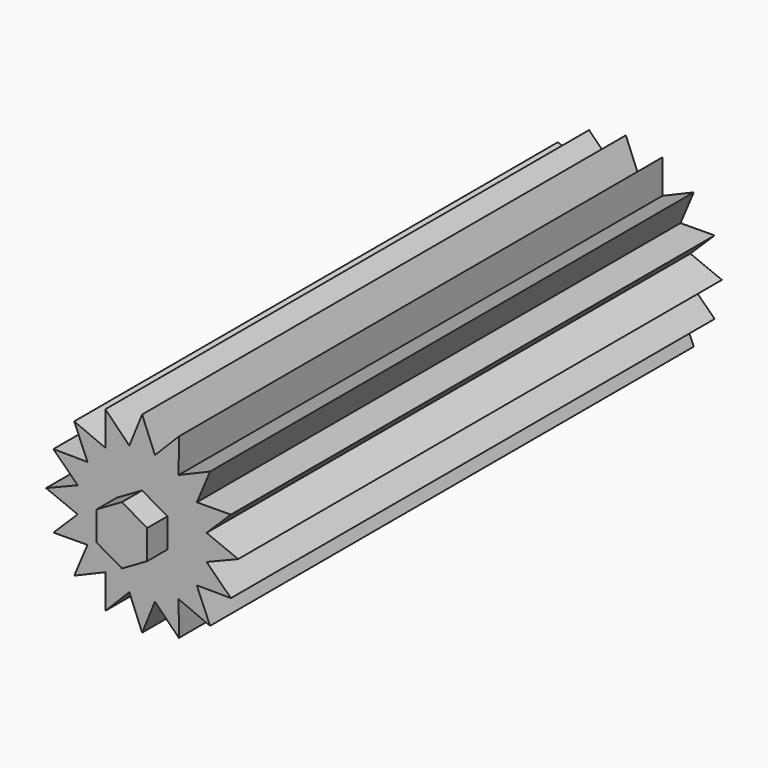
from build123d import *

# Parameters (mm, degrees)
F1_DEPTH = 75.946
F3_DEPTH = 3.175


with BuildPart() as f1:
    # F0 (on Front) → F1 (new body)
    with BuildSketch(Plane.XZ):
        with BuildLine():
            Line((8.255, 0), (12.065, 0))
            Line((12.065, 0), (8.096382, 1.610471))
            ThreePointArc((8.096382, 1.610471), (8.21525, 0.809131), (8.255, 0))
        make_face()
        with BuildLine():
            ThreePointArc((7.626626, 3.159052), (7.899542, 2.3963), (8.096382, 1.610471))
            Line((8.096382, 1.610471), (11.146607, 4.617076))
            Line((11.146607, 4.617076), (7.626626, 3.159052))
        make_face()
        with BuildLine():
            Line((7.626626, 3.159052), (11.146607, 4.617076))
            Line((11.146607, 4.617076), (6.863782, 4.586232))
            ThreePointArc((6.863782, 4.586232), (7.28026, 3.89138), (7.626626, 3.159052))
        make_face()
        with BuildLine():
            ThreePointArc((5.837166, 5.837166), (6.381201, 5.236917), (6.863782, 4.586232))
            Line((6.863782, 4.586232), (8.531243, 8.531243))
            Line((8.531243, 8.531243), (5.837166, 5.837166))
        make_face()
        with BuildLine():
            ThreePointArc((4.586232, 6.863782), (5.236917, 6.381201), (5.837166, 5.837166))
            Line((5.837166, 5.837166), (8.531243, 8.531243))
            Line((8.531243, 8.531243), (4.586232, 6.863782))
        make_face()
        with BuildLine():
            Line((4.617076, 11.146607), (3.159052, 7.626626))
            ThreePointArc((3.159052, 7.626626), (3.89138, 7.28026), (4.586232, 6.863782))
            Line((4.586232, 6.863782), (4.617076, 11.146607))
        make_face()
        with BuildLine():
            ThreePointArc((1.610471, 8.096382), (2.3963, 7.899542), (3.159052, 7.626626))
            Line((3.159052, 7.626626), (4.617076, 11.146607))
            Line((4.617076, 11.146607), (1.610471, 8.096382))
        make_face()
        with BuildLine():
            Line((0, 12.065), (0, 8.255))
            ThreePointArc((0, 8.255), (0.809131, 8.21525), (1.610471, 8.096382))
            Line((1.610471, 8.096382), (0, 12.065))
        make_face()
        with BuildLine():
            ThreePointArc((-1.610471, 8.096382), (-0.809131, 8.21525), (0, 8.255))
            Line((0, 8.255), (0, 12.065))
            Line((0, 12.065), (-1.610471, 8.096382))
        make_face()
        with BuildLine():
            Line((-4.617076, 11.146607), (-3.159052, 7.626626))
            ThreePointArc((-3.159052, 7.626626), (-2.3963, 7.899542), (-1.610471, 8.096382))
            Line((-1.610471, 8.096382), (-4.617076, 11.146607))
        make_face()
        with BuildLine():
            ThreePointArc((-4.586232, 6.863782), (-3.89138, 7.28026), (-3.159052, 7.626626))
            Line((-3.159052, 7.626626), (-4.617076, 11.146607))
            Line((-4.617076, 11.146607), (-4.586232, 6.863782))
        make_face()
        with BuildLine():
            Line((-8.531243, 8.531243), (-5.837166, 5.837166))
            ThreePointArc((-5.837166, 5.837166), (-5.236917, 6.381201), (-4.586232, 6.863782))
            Line((-4.586232, 6.863782), (-8.531243, 8.531243))
        make_face()
        with BuildLine():
            ThreePointArc((-6.863782, 4.586232), (-6.381201, 5.236917), (-5.837166, 5.837166))
            Line((-5.837166, 5.837166), (-8.531243, 8.531243))
            Line((-8.531243, 8.531243), (-6.863782, 4.586232))
        make_face()
        with BuildLine():
            Line((-11.146607, 4.617076), (-7.626626, 3.159052))
            ThreePointArc((-7.626626, 3.159052), (-7.28026, 3.89138), (-6.863782, 4.586232))
            Line((-6.863782, 4.586232), (-11.146607, 4.617076))
        make_face()
        with BuildLine():
            ThreePointArc((-8.096382, 1.610471), (-7.899542, 2.3963), (-7.626626, 3.159052))
            Line((-7.626626, 3.159052), (-11.146607, 4.617076))
            Line((-11.146607, 4.617076), (-8.096382, 1.610471))
        make_face()
        with BuildLine():
            Line((-12.065, 0), (-8.255, 0))
            ThreePointArc((-8.255, 0), (-8.21525, 0.809131), (-8.096382, 1.610471))
            Line((-8.096382, 1.610471), (-12.065, 0))
        make_face()
        with BuildLine():
            ThreePointArc((-8.096382, -1.610471), (-8.21525, -0.809131), (-8.255, 0))
            Line((-8.255, 0), (-12.065, 0))
            Line((-12.065, 0), (-8.096382, -1.610471))
        make_face()
        with BuildLine():
            Line((-11.146607, -4.617076), (-7.626626, -3.159052))
            ThreePointArc((-7.626626, -3.159052), (-7.899542, -2.3963), (-8.096382, -1.610471))
            Line((-8.096382, -1.610471), (-11.146607, -4.617076))
        make_face()
        with BuildLine():
            ThreePointArc((-6.863782, -4.586232), (-7.28026, -3.89138), (-7.626626, -3.159052))
            Line((-7.626626, -3.159052), (-11.146607, -4.617076))
            Line((-11.146607, -4.617076), (-6.863782, -4.586232))
        make_face()
        with BuildLine():
            Line((-8.531243, -8.531243), (-5.837166, -5.837166))
            ThreePointArc((-5.837166, -5.837166), (-6.381201, -5.236917), (-6.863782, -4.586232))
            Line((-6.863782, -4.586232), (-8.531243, -8.531243))
        make_face()
        with BuildLine():
            ThreePointArc((-4.586232, -6.863782), (-5.236917, -6.381201), (-5.837166, -5.837166))
            Line((-5.837166, -5.837166), (-8.531243, -8.531243))
            Line((-8.531243, -8.531243), (-4.586232, -6.863782))
        make_face()
        with BuildLine():
            Line((-4.617076, -11.146607), (-3.159052, -7.626626))
            ThreePointArc((-3.159052, -7.626626), (-3.89138, -7.28026), (-4.586232, -6.863782))
            Line((-4.586232, -6.863782), (-4.617076, -11.146607))
        make_face()
        with BuildLine():
            ThreePointArc((-1.610471, -8.096382), (-2.3963, -7.899542), (-3.159052, -7.626626))
            Line((-3.159052, -7.626626), (-4.617076, -11.146607))
            Line((-4.617076, -11.146607), (-1.610471, -8.096382))
        make_face()
        with BuildLine():
            Line((0, -12.065), (0, -8.255))
            ThreePointArc((0, -8.255), (-0.809131, -8.21525), (-1.610471, -8.096382))
            Line((-1.610471, -8.096382), (0, -12.065))
        make_face()
        with BuildLine():
            ThreePointArc((1.610471, -8.096382), (0.809131, -8.21525), (0, -8.255))
            Line((0, -8.255), (0, -12.065))
            Line((0, -12.065), (1.610471, -8.096382))
        make_face()
        with BuildLine():
            Line((4.617076, -11.146607), (3.159052, -7.626626))
            ThreePointArc((3.159052, -7.626626), (2.3963, -7.899542), (1.610471, -8.096382))
            Line((1.610471, -8.096382), (4.617076, -11.146607))
        make_face()
        with BuildLine():
            ThreePointArc((4.586232, -6.863782), (3.89138, -7.28026), (3.159052, -7.626626))
            Line((3.159052, -7.626626), (4.617076, -11.146607))
            Line((4.617076, -11.146607), (4.586232, -6.863782))
        make_face()
        with BuildLine():
            Line((8.531243, -8.531243), (5.837166, -5.837166))
            ThreePointArc((5.837166, -5.837166), (5.236917, -6.381201), (4.586232, -6.863782))
            Line((4.586232, -6.863782), (8.531243, -8.531243))
        make_face()
        with BuildLine():
            Line((8.531243, -8.531243), (6.863782, -4.586232))
            ThreePointArc((6.863782, -4.586232), (6.381201, -5.236917), (5.837166, -5.837166))
            Line((5.837166, -5.837166), (8.531243, -8.531243))
        make_face()
        with BuildLine():
            Line((6.863782, -4.586232), (11.146607, -4.617076))
            Line((11.146607, -4.617076), (7.626626, -3.159052))
            ThreePointArc((7.626626, -3.159052), (7.28026, -3.89138), (6.863782, -4.586232))
        make_face()
        with BuildLine():
            Line((11.146607, -4.617076), (8.096382, -1.610471))
            ThreePointArc((8.096382, -1.610471), (7.899542, -2.3963), (7.626626, -3.159052))
            Line((7.626626, -3.159052), (11.146607, -4.617076))
        make_face()
        with BuildLine():
            Line((8.096382, -1.610471), (12.065, 0))
            Line((12.065, 0), (8.255, 0))
            ThreePointArc((8.255, 0), (8.21525, -0.809131), (8.096382, -1.610471))
        make_face()
        with BuildLine():
            Line((-4.586232, 6.863782), (0, 0))
            Line((0, 0), (-3.159052, 7.626626))
            ThreePointArc((-3.159052, 7.626626), (-3.89138, 7.28026), (-4.586232, 6.863782))
        make_face()
        with BuildLine():
            Line((-3.159052, 7.626626), (0, 0))
            Line((0, 0), (-1.610471, 8.096382))
            ThreePointArc((-1.610471, 8.096382), (-2.3963, 7.899542), (-3.159052, 7.626626))
        make_face()
        with BuildLine():
            Line((0, 8.255), (0, 0))
            Line((0, 0), (1.610471, 8.096382))
            ThreePointArc((1.610471, 8.096382), (0.809131, 8.21525), (0, 8.255))
        make_face()
        with BuildLine():
            Line((-1.610471, 8.096382), (0, 0))
            Line((0, 0), (0, 8.255))
            ThreePointArc((0, 8.255), (-0.809131, 8.21525), (-1.610471, 8.096382))
        make_face()
        with BuildLine():
            Line((3.159052, 7.626626), (0, 0))
            Line((0, 0), (4.586232, 6.863782))
            ThreePointArc((4.586232, 6.863782), (3.89138, 7.28026), (3.159052, 7.626626))
        make_face()
        with BuildLine():
            Line((1.610471, 8.096382), (0, 0))
            Line((0, 0), (3.159052, 7.626626))
            ThreePointArc((3.159052, 7.626626), (2.3963, 7.899542), (1.610471, 8.096382))
        make_face()
        with BuildLine():
            Line((5.837166, 5.837166), (0, 0))
            Line((0, 0), (6.863782, 4.586232))
            ThreePointArc((6.863782, 4.586232), (6.381201, 5.236917), (5.837166, 5.837166))
        make_face()
        with BuildLine():
            Line((4.586232, 6.863782), (0, 0))
            Line((0, 0), (5.837166, 5.837166))
            ThreePointArc((5.837166, 5.837166), (5.236917, 6.381201), (4.586232, 6.863782))
        make_face()
        with BuildLine():
            Line((0, 0), (8.096382, 1.610471))
            ThreePointArc((8.096382, 1.610471), (7.899542, 2.3963), (7.626626, 3.159052))
            Line((7.626626, 3.159052), (0, 0))
        make_face()
        with BuildLine():
            Line((6.863782, 4.586232), (0, 0))
            Line((0, 0), (7.626626, 3.159052))
            ThreePointArc((7.626626, 3.159052), (7.28026, 3.89138), (6.863782, 4.586232))
        make_face()
        with BuildLine():
            Line((-8.255, 0), (0, 0))
            Line((0, 0), (-8.096382, 1.610471))
            ThreePointArc((-8.096382, 1.610471), (-8.21525, 0.809131), (-8.255, 0))
        make_face()
        with BuildLine():
            Line((-8.096382, -1.610471), (0, 0))
            Line((0, 0), (-8.255, 0))
            ThreePointArc((-8.255, 0), (-8.21525, -0.809131), (-8.096382, -1.610471))
        make_face()
        with BuildLine():
            Line((7.626626, -3.159052), (0, 0))
            Line((0, 0), (6.863782, -4.586232))
            ThreePointArc((6.863782, -4.586232), (7.28026, -3.89138), (7.626626, -3.159052))
        make_face()
        with BuildLine():
            ThreePointArc((7.626626, -3.159052), (7.899542, -2.3963), (8.096382, -1.610471))
            Line((8.096382, -1.610471), (0, 0))
            Line((0, 0), (7.626626, -3.159052))
        make_face()
        with BuildLine():
            Line((5.837166, -5.837166), (0, 0))
            Line((0, 0), (4.586232, -6.863782))
            ThreePointArc((4.586232, -6.863782), (5.236917, -6.381201), (5.837166, -5.837166))
        make_face()
        with BuildLine():
            Line((6.863782, -4.586232), (0, 0))
            Line((0, 0), (5.837166, -5.837166))
            ThreePointArc((5.837166, -5.837166), (6.381201, -5.236917), (6.863782, -4.586232))
        make_face()
        with BuildLine():
            Line((3.159052, -7.626626), (0, 0))
            Line((0, 0), (1.610471, -8.096382))
            ThreePointArc((1.610471, -8.096382), (2.3963, -7.899542), (3.159052, -7.626626))
        make_face()
        with BuildLine():
            Line((-3.159052, -7.626626), (0, 0))
            Line((0, 0), (-4.586232, -6.863782))
            ThreePointArc((-4.586232, -6.863782), (-3.89138, -7.28026), (-3.159052, -7.626626))
        make_face()
        with BuildLine():
            Line((-1.610471, -8.096382), (0, 0))
            Line((0, 0), (-3.159052, -7.626626))
            ThreePointArc((-3.159052, -7.626626), (-2.3963, -7.899542), (-1.610471, -8.096382))
        make_face()
        with BuildLine():
            Line((-5.837166, -5.837166), (0, 0))
            Line((0, 0), (-6.863782, -4.586232))
            ThreePointArc((-6.863782, -4.586232), (-6.381201, -5.236917), (-5.837166, -5.837166))
        make_face()
        with BuildLine():
            Line((-4.586232, -6.863782), (0, 0))
            Line((0, 0), (-5.837166, -5.837166))
            ThreePointArc((-5.837166, -5.837166), (-5.236917, -6.381201), (-4.586232, -6.863782))
        make_face()
        with BuildLine():
            Line((-7.626626, -3.159052), (0, 0))
            Line((0, 0), (-8.096382, -1.610471))
            ThreePointArc((-8.096382, -1.610471), (-7.899542, -2.3963), (-7.626626, -3.159052))
        make_face()
        with BuildLine():
            Line((-6.863782, -4.586232), (0, 0))
            Line((0, 0), (-7.626626, -3.159052))
            ThreePointArc((-7.626626, -3.159052), (-7.28026, -3.89138), (-6.863782, -4.586232))
        make_face()
        with BuildLine():
            ThreePointArc((8.096382, -1.610471), (8.21525, -0.809131), (8.255, 0))
            Line((8.255, 0), (0, 0))
            Line((0, 0), (8.096382, -1.610471))
        make_face()
        with BuildLine():
            Line((0, 0), (8.255, 0))
            ThreePointArc((8.255, 0), (8.21525, 0.809131), (8.096382, 1.610471))
            Line((8.096382, 1.610471), (0, 0))
        make_face()
        with BuildLine():
            Line((-7.626626, 3.159052), (0, 0))
            Line((0, 0), (-6.863782, 4.586232))
            ThreePointArc((-6.863782, 4.586232), (-7.28026, 3.89138), (-7.626626, 3.159052))
        make_face()
        with BuildLine():
            Line((-8.096382, 1.610471), (0, 0))
            Line((0, 0), (-7.626626, 3.159052))
            ThreePointArc((-7.626626, 3.159052), (-7.899542, 2.3963), (-8.096382, 1.610471))
        make_face()
        with BuildLine():
            Line((-5.837166, 5.837166), (0, 0))
            Line((0, 0), (-4.586232, 6.863782))
            ThreePointArc((-4.586232, 6.863782), (-5.236917, 6.381201), (-5.837166, 5.837166))
        make_face()
        with BuildLine():
            Line((-6.863782, 4.586232), (0, 0))
            Line((0, 0), (-5.837166, 5.837166))
            ThreePointArc((-5.837166, 5.837166), (-6.381201, 5.236917), (-6.863782, 4.586232))
        make_face()
        with BuildLine():
            Line((4.586232, -6.863782), (0, 0))
            Line((0, 0), (3.159052, -7.626626))
            ThreePointArc((3.159052, -7.626626), (3.89138, -7.28026), (4.586232, -6.863782))
        make_face()
        with BuildLine():
            Line((0, -8.255), (0, 0))
            Line((0, 0), (-1.610471, -8.096382))
            ThreePointArc((-1.610471, -8.096382), (-0.809131, -8.21525), (0, -8.255))
        make_face()
        with BuildLine():
            Line((1.610471, -8.096382), (0, 0))
            Line((0, 0), (0, -8.255))
            ThreePointArc((0, -8.255), (0.809131, -8.21525), (1.610471, -8.096382))
        make_face()
    extrude(amount=F1_DEPTH)

    # F2 (on face) → F3 (join)
    with BuildSketch(Plane.XZ.offset(75.946)):
        Polygon((-3.175, 1.833087), (-3.175, -1.833087), (0, -3.666174), (3.175, -1.833087), (3.175, 1.833087), (0, 3.666174), align=None)
    extrude(amount=F3_DEPTH)


solid = f1.part
